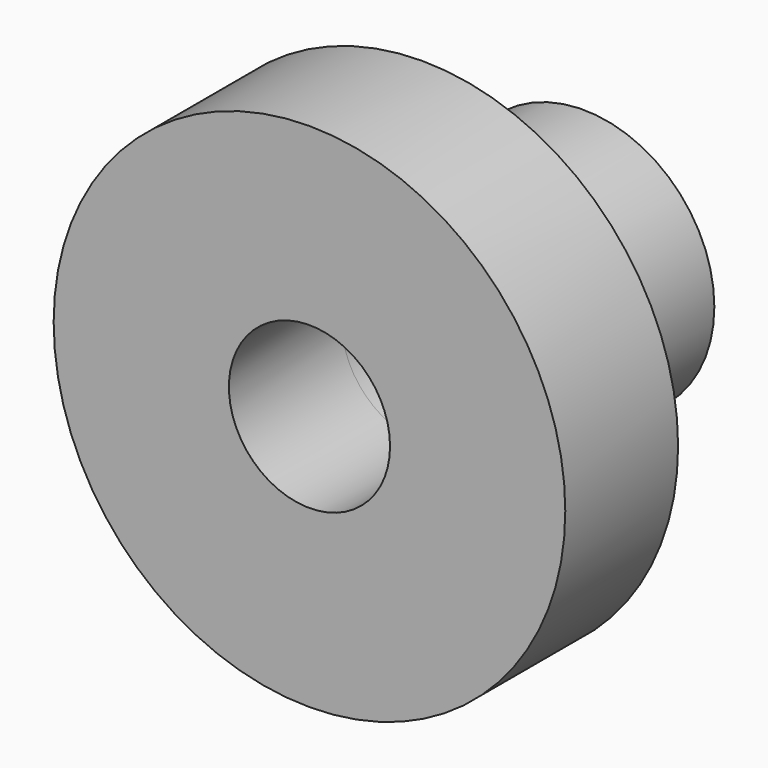
from build123d import *

# Parameters (mm, degrees)
F0_R     = 12.7
F1_DEPTH = 7
F2_R     = 6.5
F3_DEPTH = 10
F4_R     = 4
F5_DEPTH = 10.001
F6_DEPTH = 7.001
F8_D     = 5
F8_DEPTH = 12.701


with BuildPart() as f1:
    # F0 (on Front) → F1 (new body)
    with BuildSketch(Plane.XZ):
        Circle(F0_R)
    extrude(amount=F1_DEPTH)

    # F2 (on Front) → F3 (join)
    with BuildSketch(Plane.XZ):
        Circle(F2_R)
    extrude(amount=-F3_DEPTH)

    # F4 (on Front) → F5 (cut, through all)
    with BuildSketch(Plane.XZ):
        Circle(F4_R)
    extrude(amount=-F5_DEPTH, mode=Mode.SUBTRACT)

    # F6 (cut, through all): a face of the model
    f6_faces = [f1.faces().sort_by_distance(p)[0] for p in [
        (0, 0, 0),
    ]]
    extrude(f6_faces, amount=-F6_DEPTH, mode=Mode.SUBTRACT)

    # F8 (through all, one way)
    with BuildSketch(Plane.XY):
        with Locations((0, 5)):
            Circle(F8_D / 2)
    extrude(amount=-F8_DEPTH, mode=Mode.SUBTRACT)


solid = f1.part
